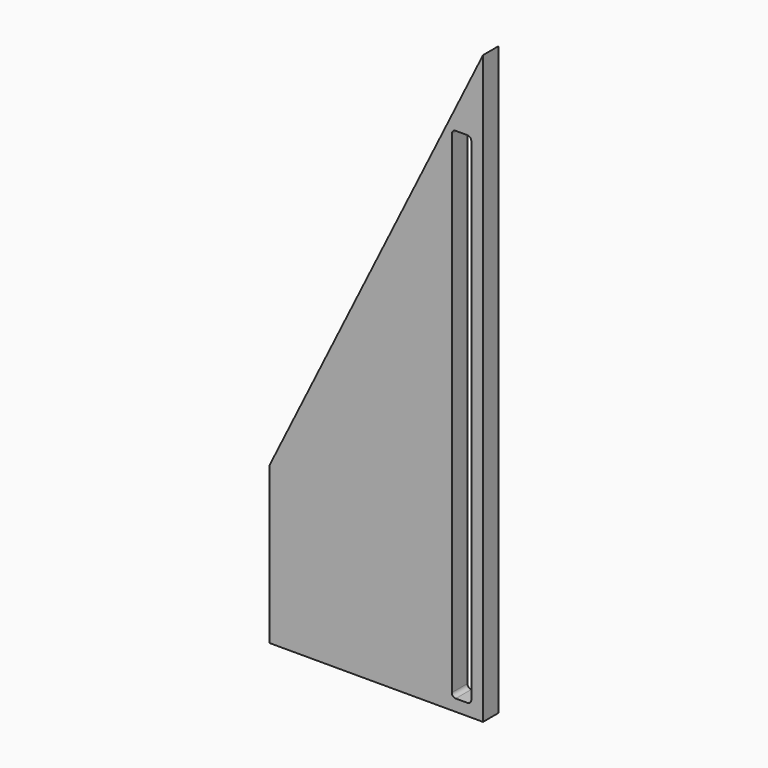
from build123d import *

# Parameters (mm, degrees)
F1_DEPTH = 1.5875


with BuildPart() as f1:
    # F0 (on Front) → F1 (new body, symmetric)
    with BuildSketch(Plane.XZ):
        Polygon((0, 25.4), (0, 0), (34.7492465619, 0), (34.7492465619, 95.4727702718), align=None)
        with BuildLine():
            Line((32.2092465619, 1.905), (30.3042465619, 1.905))
            ThreePointArc((30.3042465619, 1.905), (29.8552337558, 2.0909871939), (29.6692465619, 2.54))
            Line((29.6692465619, 2.54), (29.6692465619, 82.55))
            ThreePointArc((29.6692465619, 82.55), (29.8552337558, 82.9990128061), (30.3042465619, 83.185))
            Line((30.3042465619, 83.185), (32.2092465619, 83.185))
            ThreePointArc((32.2092465619, 83.185), (32.6582593679, 82.9990128061), (32.8442465619, 82.55))
            Line((32.8442465619, 82.55), (32.8442465619, 2.54))
            ThreePointArc((32.8442465619, 2.54), (32.6582593679, 2.0909871939), (32.2092465619, 1.905))
        make_face(mode=Mode.SUBTRACT)
    extrude(amount=F1_DEPTH, both=True)


solid = f1.part
